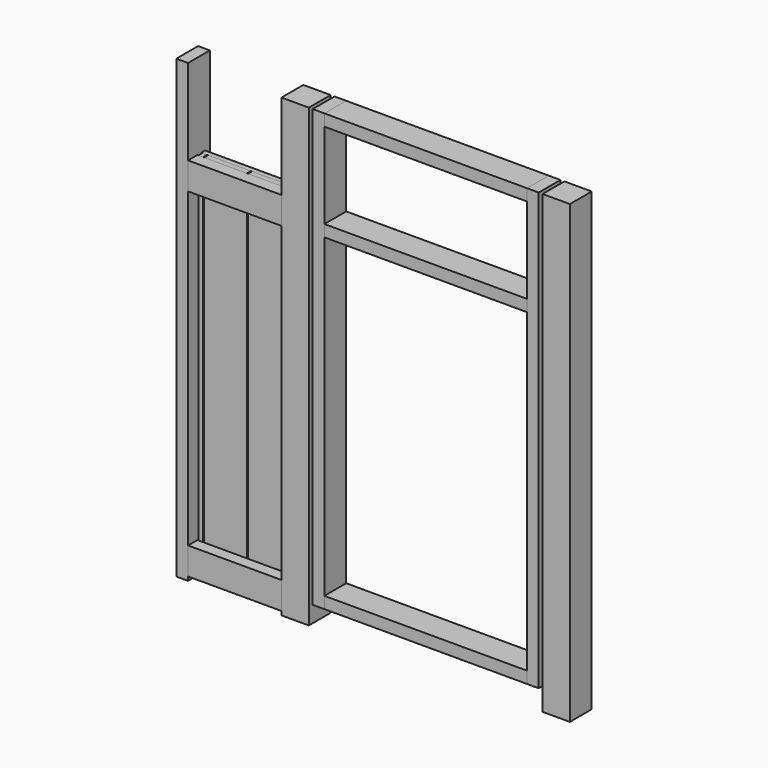
from build123d import *

# Parameters (mm, degrees)
F0_W      = 88.9
F0_H      = 88.9
F1_DEPTH  = 1485.9
F0_W_2    = 38.1
F2_W      = 38.1
F2_H      = 88.9
F3_DEPTH  = 304.8
F2_W_2    = 40.4457002878
F4_W      = 139.7
F4_H      = 1193.8
F5_DEPTH  = 15.875
F4_W_2    = 15.875
F6_W      = 304.8
F6_H      = 88.9
F7_DEPTH  = 15.875
F8_W      = 38.1
F8_H      = 1422.4
F9_DEPTH  = 88.9
F10_W     = 660.4
F10_H     = 38.1
F11_DEPTH = 88.9
F12_W     = 38.1
F12_H     = 38.1
F12_W_2   = 88.9
F13_DEPTH = 88.9


with BuildPart() as f1:
    # F0 (on Top) → F1 (new body)
    with BuildSketch(Plane.XY):
        with Locations((1238.25, 44.45)):
            Rectangle(F0_W, F0_H)
    extrude(amount=F1_DEPTH)

    # F12 (on face) → F13 (cut)
    with BuildSketch(Plane.XZ):
        with Locations((19.05, 1466.85)):
            Rectangle(F12_W, F12_H)
        with Locations((387.35, 1466.85)):
            Rectangle(F12_W_2, F12_H)
    extrude(amount=F13_DEPTH, mode=Mode.SUBTRACT)


with BuildPart() as f1b:
    # F0 (on Top) → F1, piece 2 (new body)
    with BuildSketch(Plane.XY):
        with Locations((387.35, 44.45)):
            Rectangle(F0_W, F0_H)
    extrude(amount=F1_DEPTH)


with BuildPart() as f1c:
    # F0 (on Top) → F1, piece 3 (new body)
    with BuildSketch(Plane.XY):
        with Locations((19.05, 44.45)):
            Rectangle(F0_W_2, F0_H)
    extrude(amount=F1_DEPTH)


with BuildPart() as f3:
    # F2 (on face) → F3 (new body, through all)
    with BuildSketch(Plane(origin=(342.9, 0, 0), x_dir=(0, -1, 0), z_dir=(-1, 0, 0))):
        with Locations((-19.05, 1162.05)):
            Rectangle(F2_W, F2_H)
    extrude(amount=F3_DEPTH)


with BuildPart() as f3b:
    # F2 (on face) → F3, piece 2 (new body, through all)
    with BuildSketch(Plane(origin=(342.9, 0, 0), x_dir=(0, -1, 0), z_dir=(-1, 0, 0))):
        with Locations((-20.2228501439, 57.15)):
            Rectangle(F2_W_2, F2_H)
    extrude(amount=F3_DEPTH)


with BuildPart() as f5:
    # F4 (on face) → F5 (new body)
    with BuildSketch(Plane(origin=(0, 38.1, 0), x_dir=(-1, 0, 0), z_dir=(0, 1, 0))):
        with Locations((-273.05, 609.6)):
            Rectangle(F4_W, F4_H)
    extrude(amount=F5_DEPTH)


with BuildPart() as f5b:
    # F4 (on face) → F5, piece 2 (new body)
    with BuildSketch(Plane(origin=(0, 38.1, 0), x_dir=(-1, 0, 0), z_dir=(0, 1, 0))):
        with Locations((-130.175, 609.6)):
            Rectangle(F4_W, F4_H)
    extrude(amount=F5_DEPTH)


with BuildPart() as f5c:
    # F4 (on face) → F5, piece 3 (new body)
    with BuildSketch(Plane(origin=(0, 38.1, 0), x_dir=(-1, 0, 0), z_dir=(0, 1, 0))):
        with Locations((-49.2125, 609.6)):
            Rectangle(F4_W_2, F4_H)
    extrude(amount=F5_DEPTH)


with BuildPart() as f7:
    # F6 (on face) → F7 (new body)
    with BuildSketch(Plane(origin=(0, 53.975, 0), x_dir=(-1, 0, 0), z_dir=(0, 1, 0))):
        with Locations((-190.5, 1162.05)):
            Rectangle(F6_W, F6_H)
    extrude(amount=F7_DEPTH)


with BuildPart() as f7b:
    # F6 (on face) → F7, piece 2 (new body)
    with BuildSketch(Plane(origin=(0, 53.975, 0), x_dir=(-1, 0, 0), z_dir=(0, 1, 0))):
        with Locations((-190.5, 57.15)):
            Rectangle(F6_W, F6_H)
    extrude(amount=F7_DEPTH)


with BuildPart() as f9:
    # F8 (on face) → F9 (new body)
    with BuildSketch(Plane.XZ):
        with Locations((1162.05, 774.7)):
            Rectangle(F8_W, F8_H)
    extrude(amount=-F9_DEPTH)


with BuildPart() as f9b:
    # F8 (on face) → F9, piece 2 (new body)
    with BuildSketch(Plane.XZ):
        with Locations((463.55, 774.7)):
            Rectangle(F8_W, F8_H)
    extrude(amount=-F9_DEPTH)


with BuildPart() as f11:
    # F10 (on face) → F11 (new body)
    with BuildSketch(Plane.XZ):
        with Locations((812.8, 1466.85)):
            Rectangle(F10_W, F10_H)
    extrude(amount=-F11_DEPTH)


with BuildPart() as f11b:
    # F10 (on face) → F11, piece 2 (new body)
    with BuildSketch(Plane.XZ):
        with Locations((812.8, 1149.35)):
            Rectangle(F10_W, F10_H)
    extrude(amount=-F11_DEPTH)


with BuildPart() as f11c:
    # F10 (on face) → F11, piece 3 (new body)
    with BuildSketch(Plane.XZ):
        with Locations((812.8, 82.55)):
            Rectangle(F10_W, F10_H)
    extrude(amount=-F11_DEPTH)


solid = Compound([f1.part, f1b.part, f1c.part, f3.part, f3b.part, f5.part, f5b.part, f5c.part, f7.part, f7b.part, f9.part, f9b.part, f11.part, f11b.part, f11c.part])
